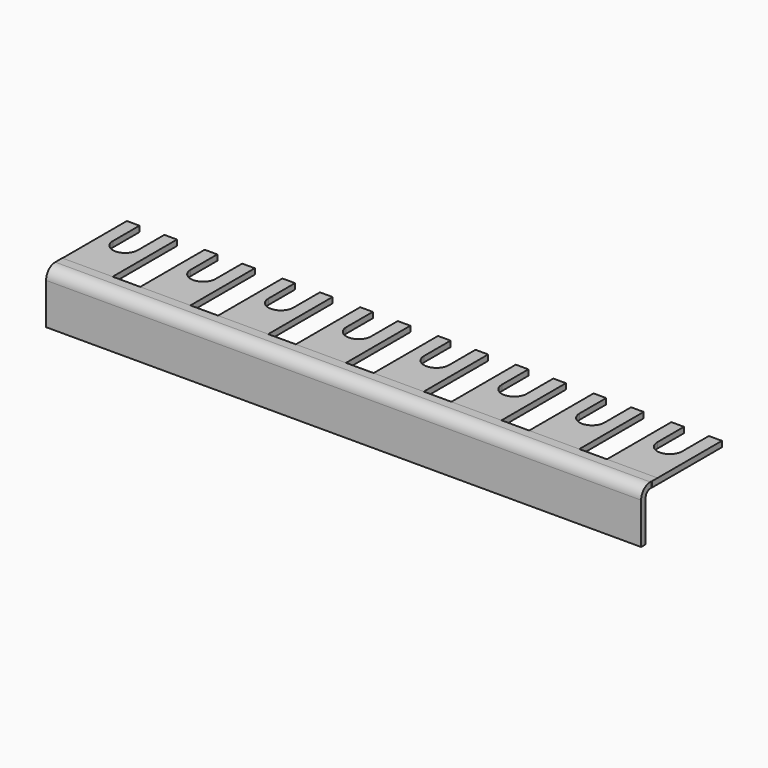
from build123d import *

# Parameters (mm, degrees)
F2_DEPTH = 0.8128
F3_DEPTH = 42.5069


with BuildPart() as f2:
    # F0 (on Top) → F2 (new body)
    with BuildSketch(Plane.XY):
        with BuildLine():
            Line((-40.675067, 1.436335), (-42.478467, 1.436335))
            Line((-42.478467, 1.436335), (-42.478467, -11.085865))
            Line((-42.478467, -11.085865), (-35.315667, -11.085865))
            Line((-35.315667, -11.085865), (-35.315667, 1.436335))
            Line((-35.315667, 1.436335), (-37.119067, 1.436335))
            Line((-37.119067, 1.436335), (-37.119067, -3.313465))
            ThreePointArc((-37.119067, -3.313465), (-38.897067, -5.091465), (-40.675067, -3.313465))
            Line((-40.675067, -3.313465), (-40.675067, 1.436335))
        make_face()
        with BuildLine():
            Line((35.309033, 1.436335), (35.309033, -11.085865))
            Line((35.309033, -11.085865), (42.535333, -11.085865))
            Line((42.535333, -11.085865), (42.535333, 1.436335))
            Line((42.535333, 1.436335), (40.668433, 1.436335))
            Line((40.668433, 1.436335), (40.668433, -3.313465))
            ThreePointArc((40.668433, -3.313465), (38.890433, -5.091465), (37.112433, -3.313465))
            Line((37.112433, -3.313465), (37.112433, 1.436335))
            Line((37.112433, 1.436335), (35.309033, 1.436335))
        make_face()
        with BuildLine():
            Line((24.196533, 1.436335), (24.196533, -11.085865))
            Line((24.196533, -11.085865), (31.359333, -11.085865))
            Line((31.359333, -11.085865), (31.359333, 1.436335))
            Line((31.359333, 1.436335), (29.555933, 1.436335))
            Line((29.555933, 1.436335), (29.555933, -3.313465))
            ThreePointArc((29.555933, -3.313465), (27.777933, -5.091465), (25.999933, -3.313465))
            Line((25.999933, -3.313465), (25.999933, 1.436335))
            Line((25.999933, 1.436335), (24.196533, 1.436335))
        make_face()
        with BuildLine():
            Line((13.084033, 1.436335), (13.084033, -11.085865))
            Line((13.084033, -11.085865), (20.246833, -11.085865))
            Line((20.246833, -11.085865), (20.246833, 1.436335))
            Line((20.246833, 1.436335), (18.443433, 1.436335))
            Line((18.443433, 1.436335), (18.443433, -3.313465))
            ThreePointArc((18.443433, -3.313465), (16.665433, -5.091465), (14.887433, -3.313465))
            Line((14.887433, -3.313465), (14.887433, 1.436335))
            Line((14.887433, 1.436335), (13.084033, 1.436335))
        make_face()
        with BuildLine():
            Line((1.971533, 1.436335), (1.971533, -11.085865))
            Line((1.971533, -11.085865), (9.134333, -11.085865))
            Line((9.134333, -11.085865), (9.134333, 1.436335))
            Line((9.134333, 1.436335), (7.330933, 1.436335))
            Line((7.330933, 1.436335), (7.330933, -3.313465))
            ThreePointArc((7.330933, -3.313465), (5.552933, -5.091465), (3.774933, -3.313465))
            Line((3.774933, -3.313465), (3.774933, 1.436335))
            Line((3.774933, 1.436335), (1.971533, 1.436335))
        make_face()
        with BuildLine():
            Line((-9.140967, 1.436335), (-9.140967, -11.085865))
            Line((-9.140967, -11.085865), (-1.978167, -11.085865))
            Line((-1.978167, -11.085865), (-1.978167, 1.436335))
            Line((-1.978167, 1.436335), (-3.781567, 1.436335))
            Line((-3.781567, 1.436335), (-3.781567, -3.313465))
            ThreePointArc((-3.781567, -3.313465), (-5.559567, -5.091465), (-7.337567, -3.313465))
            Line((-7.337567, -3.313465), (-7.337567, 1.436335))
            Line((-7.337567, 1.436335), (-9.140967, 1.436335))
        make_face()
        with BuildLine():
            Line((-20.253467, 1.436335), (-20.253467, -11.085865))
            Line((-20.253467, -11.085865), (-13.090667, -11.085865))
            Line((-13.090667, -11.085865), (-13.090667, 1.436335))
            Line((-13.090667, 1.436335), (-14.894067, 1.436335))
            Line((-14.894067, 1.436335), (-14.894067, -3.313465))
            ThreePointArc((-14.894067, -3.313465), (-16.672067, -5.091465), (-18.450067, -3.313465))
            Line((-18.450067, -3.313465), (-18.450067, 1.436335))
            Line((-18.450067, 1.436335), (-20.253467, 1.436335))
        make_face()
        with BuildLine():
            Line((-31.365967, 1.436335), (-31.365967, -11.085865))
            Line((-31.365967, -11.085865), (-24.203167, -11.085865))
            Line((-24.203167, -11.085865), (-24.203167, 1.436335))
            Line((-24.203167, 1.436335), (-26.006567, 1.436335))
            Line((-26.006567, 1.436335), (-26.006567, -3.313465))
            ThreePointArc((-26.006567, -3.313465), (-27.784567, -5.091465), (-29.562567, -3.313465))
            Line((-29.562567, -3.313465), (-29.562567, 1.436335))
            Line((-29.562567, 1.436335), (-31.365967, 1.436335))
        make_face()
    extrude(amount=F2_DEPTH)


with BuildPart() as f3:
    # F1 (on Right) → F3 (new body, symmetric)
    with BuildSketch(Plane.YZ):
        with BuildLine():
            ThreePointArc((-12.1412, -0.8128), (-11.903136, -0.238064), (-11.3284, 0))
            Line((-11.3284, 0), (-10.0584, 0))
            Line((-10.0584, 0), (-10.0584, 0.8128))
            Line((-10.0584, 0.8128), (-11.3284, 0.8128))
            ThreePointArc((-11.3284, 0.8128), (-12.477873, 0.336673), (-12.954, -0.8128))
            Line((-12.954, -0.8128), (-12.954, -6.7056))
            Line((-12.954, -6.7056), (-12.1412, -6.7056))
            Line((-12.1412, -6.7056), (-12.1412, -0.8128))
        make_face()
    extrude(amount=F3_DEPTH, both=True)


solid = Compound([f2.part, f3.part])
